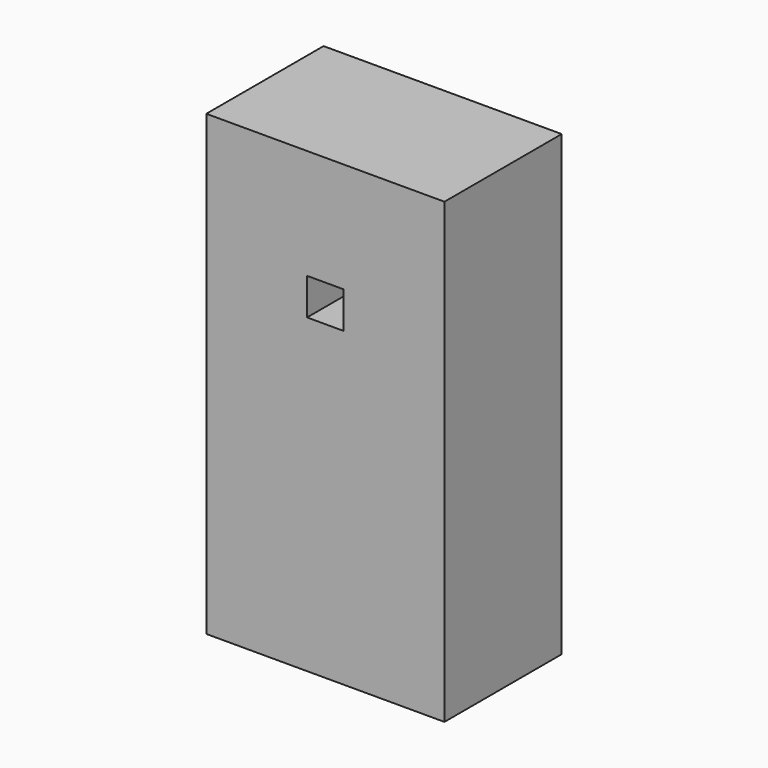
from build123d import *

# Parameters (mm, degrees)
F0_W     = 13
F0_H     = 8
F1_DEPTH = 25
F2_W     = 11
F2_H     = 6
F3_DEPTH = 1
F4_W     = 2
F4_H     = 2
F5_DEPTH = 3


with BuildPart() as f1:
    # F0 (on Top) → F1 (new body)
    with BuildSketch(Plane.XY):
        Rectangle(F0_W, F0_H)
    extrude(amount=F1_DEPTH)

    # F2 (on face) → F3 (cut)
    with BuildSketch(Plane(origin=(0, 0, 0), x_dir=(1, 0, 0), z_dir=(0, 0, -1))):
        Rectangle(F2_W, F2_H)
    extrude(amount=-F3_DEPTH, mode=Mode.SUBTRACT)

    # F4 (on face) → F5 (cut)
    with BuildSketch(Plane.XZ.offset(4)):
        with Locations((0, 18)):
            Rectangle(F4_W, F4_H)
    extrude(amount=-F5_DEPTH, mode=Mode.SUBTRACT)


solid = f1.part
